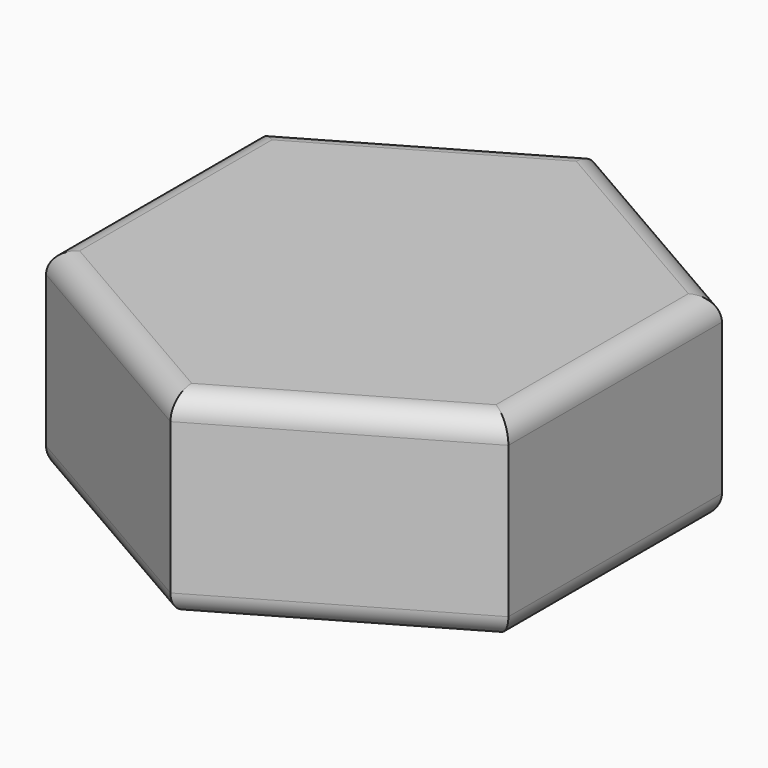
from build123d import *

# Parameters (mm, degrees)
F1_DEPTH = 6
F4_R     = 0.7


with BuildPart() as f1:
    # F0 (on Top) → F1 (new body)
    with BuildSketch(Plane.XY):
        Polygon((7.05, -4.0703193978), (7.05, 4.0703193978), (0, 8.1406387956), (-7.05, 4.0703193978), (-7.05, -4.0703193978), (0, -8.1406387956), align=None)
    extrude(amount=F1_DEPTH)

    # F2 (on Right) → F3 (revolve, cut)
    with BuildSketch(Plane.YZ):
        with BuildLine():
            Line((0, -10), (0, 0))
            Line((0, 0), (0, 1))
            ThreePointArc((0, 1), (-11, -10), (0, -21))
            Line((0, -21), (0, -10))
        make_face()
    revolve(axis=Axis((0, 0, -5), (0, 0, -1)), mode=Mode.SUBTRACT)

    # F4
    f4_edges = [f1.edges().sort_by_distance(p)[0] for p in [
        (3.525, -6.105479, 6),
        (7.05, 0, 6),
        (3.525, 6.105479, 6),
        (-3.525, 6.105479, 6),
        (-7.05, 0, 6),
        (-3.525, -6.105479, 6),
        (3.525, -6.105479, 0),
        (-3.525, -6.105479, 0),
        (7.05, 0, 0),
        (-7.05, 0, 0),
        (3.525, 6.105479, 0),
        (-3.525, 6.105479, 0),
        (0, 4.582576, 0),
    ]]
    fillet(f4_edges, radius=F4_R)


solid = f1.part
